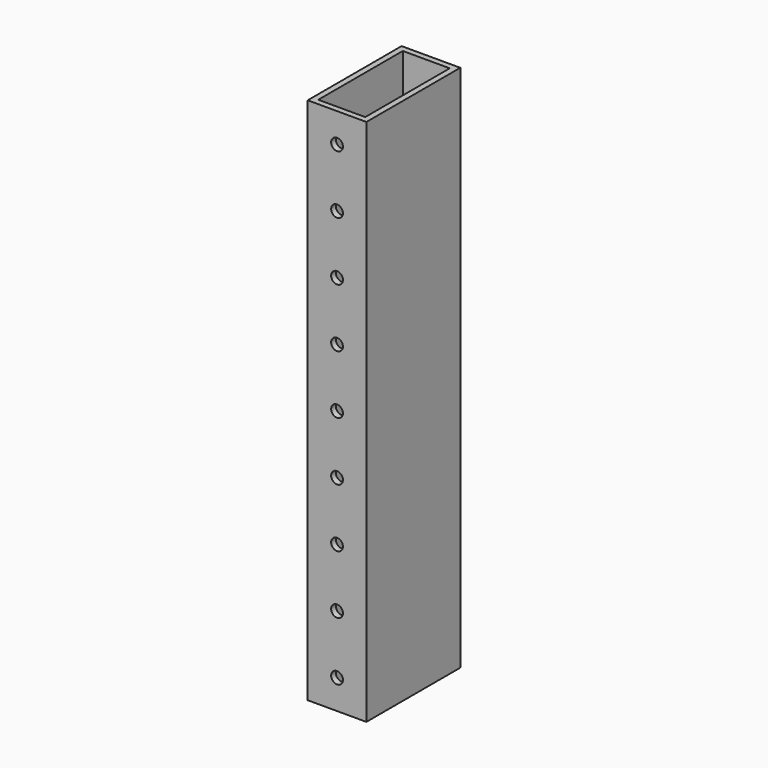
from build123d import *

# Parameters (mm, degrees)
F0_W     = 25.4
F0_H     = 50.8
F0_W_2   = 20.32
F0_H_2   = 45.72
F1_DEPTH = 228.6
F2_R     = 2.5527
F3_DEPTH = 50.8


with BuildPart() as f1:
    # F0 (on Top) → F1 (new body)
    with BuildSketch(Plane.XY):
        with Locations((12.7, -25.4)):
            Rectangle(F0_W, F0_H)
        with Locations((12.7, -25.4)):
            Rectangle(F0_W_2, F0_H_2, mode=Mode.SUBTRACT)
    extrude(amount=F1_DEPTH)

    # F2 (on face) → F3 (cut)
    with BuildSketch(Plane.XZ.offset(50.8)):
        with Locations((12.7, 139.7)):
            Circle(F2_R)
        with Locations((12.7, 114.3)):
            Circle(F2_R)
        with Locations((12.7, 88.9)):
            Circle(F2_R)
        with Locations((12.7, 63.5)):
            Circle(F2_R)
        with Locations((12.7, 38.1)):
            Circle(F2_R)
        with Locations((12.7, 12.7)):
            Circle(F2_R)
        with Locations((12.7, 165.1)):
            Circle(F2_R)
        with Locations((12.7, 190.5)):
            Circle(F2_R)
        with Locations((12.7, 215.9)):
            Circle(F2_R)
        with Locations((12.7, 241.3)):
            Circle(F2_R)
    extrude(amount=-F3_DEPTH, mode=Mode.SUBTRACT)


solid = f1.part
